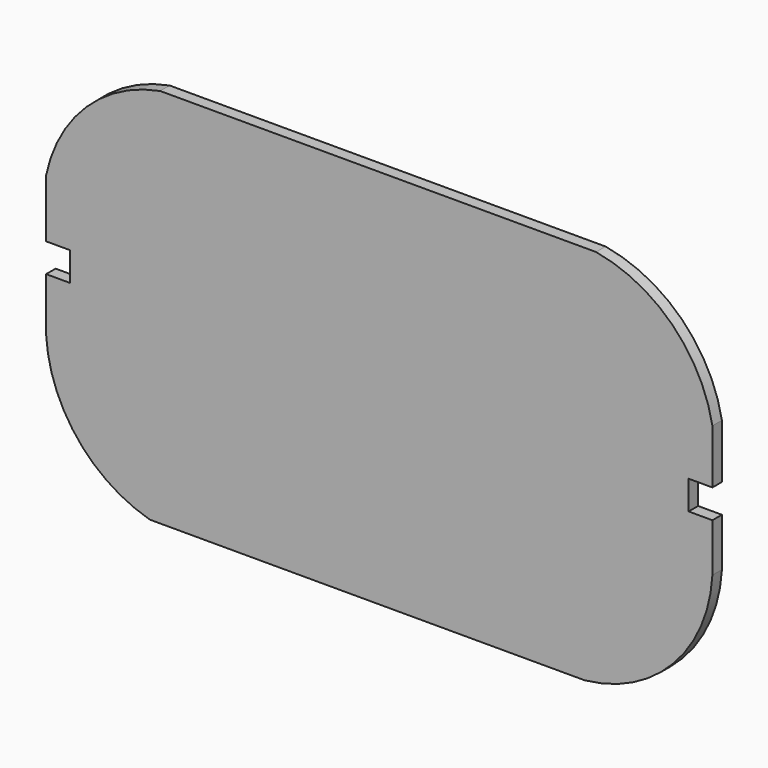
from build123d import *

# Parameters (mm, degrees)
F1_DEPTH = 19.05


with BuildPart() as f1:
    # F0 (on Front) → F1 (new body, symmetric)
    with BuildSketch(Plane.XZ):
        with BuildLine():
            Line((694.339752, 609.6), (-536.669373, 609.6))
            Line((-536.669373, 609.6), (-701.617044, 609.6))
            ThreePointArc((-701.617044, 609.6), (-938.645181, 486.932816), (-1066.8, 252.826178))
            Line((-1066.8, 252.826178), (-1066.8, 66.97423))
            Line((-1066.8, 66.97423), (-990.6, 66.97423))
            Line((-990.6, 66.97423), (-990.6, -25.4))
            Line((-990.6, -25.4), (-1066.8, -25.4))
            Line((-1066.8, -25.4), (-1066.8, -195.198253))
            ThreePointArc((-1066.8, -195.198253), (-966.940407, -455.644232), (-734.342754, -609.6))
            Line((-734.342754, -609.6), (658.094585, -609.6))
            ThreePointArc((658.094585, -609.6), (941.464566, -470.123595), (1066.8, -180.221468))
            Line((1066.8, -180.221468), (1066.8, -25.4))
            Line((1066.8, -25.4), (990.6, -25.4))
            Line((990.6, -25.4), (990.6, 66.97423))
            Line((990.6, 66.97423), (1066.8, 66.97423))
            Line((1066.8, 66.97423), (1066.8, 240.882576))
            ThreePointArc((1066.8, 240.882576), (938.646574, 483.907518), (694.339752, 609.6))
        make_face()
    extrude(amount=F1_DEPTH, both=True)


solid = f1.part
